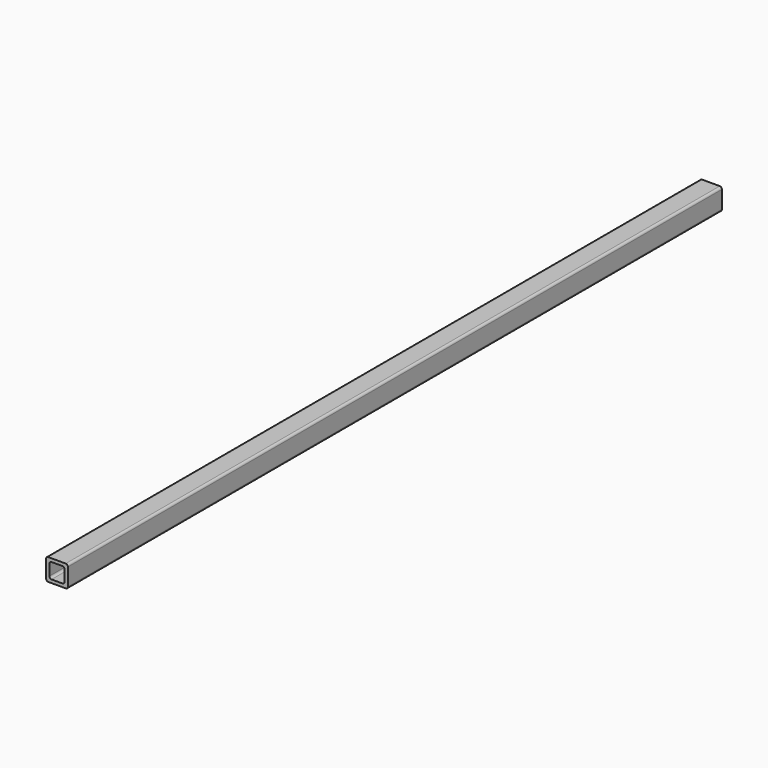
from build123d import *

# Parameters (mm, degrees)
F1_DEPTH = 1187.45


with BuildPart() as f1:
    # F0 (on Front) → F1 (new body)
    with BuildSketch(Plane.XZ):
        with BuildLine():
            ThreePointArc((15.875, 12.7), (14.945064, 14.945064), (12.7, 15.875))
            Line((12.7, 15.875), (-12.7, 15.875))
            ThreePointArc((-12.7, 15.875), (-14.945064, 14.945064), (-15.875, 12.7))
            Line((-15.875, 12.7), (-15.875, -12.7))
            ThreePointArc((-15.875, -12.7), (-14.945064, -14.945064), (-12.7, -15.875))
            Line((-12.7, -15.875), (12.7, -15.875))
            ThreePointArc((12.7, -15.875), (14.945064, -14.945064), (15.875, -12.7))
            Line((15.875, -12.7), (15.875, 12.7))
        make_face()
        with BuildLine():
            Line((-7.9375, 11.1125), (7.9375, 11.1125))
            ThreePointArc((7.9375, 11.1125), (10.182564, 10.182564), (11.1125, 7.9375))
            Line((11.1125, 7.9375), (11.1125, -7.9375))
            ThreePointArc((11.1125, -7.9375), (10.182564, -10.182564), (7.9375, -11.1125))
            Line((7.9375, -11.1125), (-7.9375, -11.1125))
            ThreePointArc((-7.9375, -11.1125), (-10.182564, -10.182564), (-11.1125, -7.9375))
            Line((-11.1125, -7.9375), (-11.1125, 7.9375))
            ThreePointArc((-11.1125, 7.9375), (-10.182564, 10.182564), (-7.9375, 11.1125))
        make_face(mode=Mode.SUBTRACT)
    extrude(amount=-F1_DEPTH)


solid = f1.part
